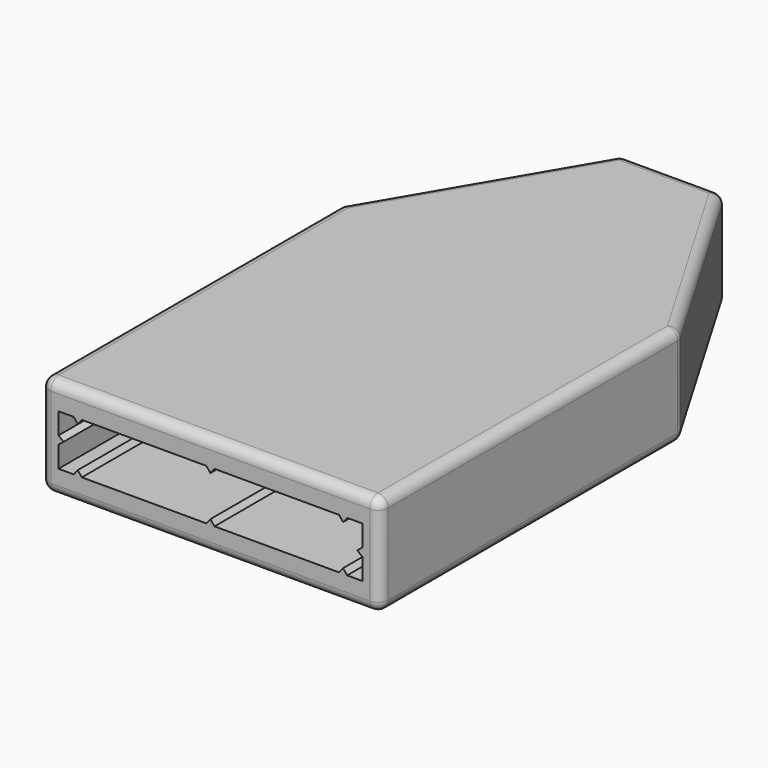
from build123d import *

# Parameters (mm, degrees)
F0_W     = 33.5
F0_H     = 37
F1_DEPTH = 10
F3_DEPTH = 37
F4_DEPTH = 10
F6_DEPTH = 15
F7_R     = 1


with BuildPart() as f1:
    # F0 (on Top) → F1 (new body)
    with BuildSketch(Plane.XY):
        Rectangle(F0_W, F0_H)
    extrude(amount=F1_DEPTH)

    # F2 (on face) → F3 (cut, through all)
    with BuildSketch(Plane.XZ.offset(18.5)):
        Polygon((-13.5, 7.5), (-15, 7.5), (-15, 5.4), (-14.5, 5), (-15, 4.6), (-15, 2.5), (-13.5, 2.5), (-13.1, 3), (-12.7, 2.5), (-1.9, 2.5), (-0.4, 2.5), (0, 3), (0.4, 2.5), (11.2, 2.5), (12.7, 2.5), (13.1, 3), (13.5, 2.5), (15, 2.5), (15, 4.6), (14.5, 5), (15, 5.4), (15, 7.5), (13.5, 7.5), (13.1, 7), (12.7, 7.5), (0.4, 7.5), (0, 7), (-0.4, 7.5), (-12.7, 7.5), (-13.1, 7), align=None)
    extrude(amount=-F3_DEPTH, mode=Mode.SUBTRACT)

    # F0 (on Top) → F4 (join)
    with BuildSketch(Plane.XY):
        Polygon((-5, 38.5), (-16.75, 18.5), (16.75, 18.5), (5, 38.5), align=None)
    extrude(amount=F4_DEPTH)

    # F5 (on face) → F6 (cut)
    with BuildSketch(Plane(origin=(0, 38.5, 0), x_dir=(-1, 0, 0), z_dir=(0, 1, 0))):
        Polygon((-3.2, 6.8475208614), (-3.2, 3.1524791386), (0, 1.3049582772), (3.2, 3.1524791386), (3.2, 6.8475208614), (0, 8.6950417228), align=None)
    extrude(amount=-F6_DEPTH, mode=Mode.SUBTRACT)

    # F7
    f7_edges = [f1.edges().sort_by_distance(p)[0] for p in [
        (-16.75, 0, 10),
        (0, -18.5, 10),
        (16.75, 0, 10),
        (10.875, 28.5, 10),
        (0, 38.5, 10),
        (-10.875, 28.5, 10),
        (-16.75, 0, 0),
        (0, -18.5, 0),
        (16.75, 0, 0),
        (10.875, 28.5, 0),
        (0, 38.5, 0),
        (-10.875, 28.5, 0),
        (-16.75, 18.5, 5),
        (-16.75, -18.5, 5),
        (-5, 38.5, 5),
        (16.75, 18.5, 5),
        (5, 38.5, 5),
        (16.75, -18.5, 5),
    ]]
    fillet(f7_edges, radius=F7_R)


solid = f1.part
